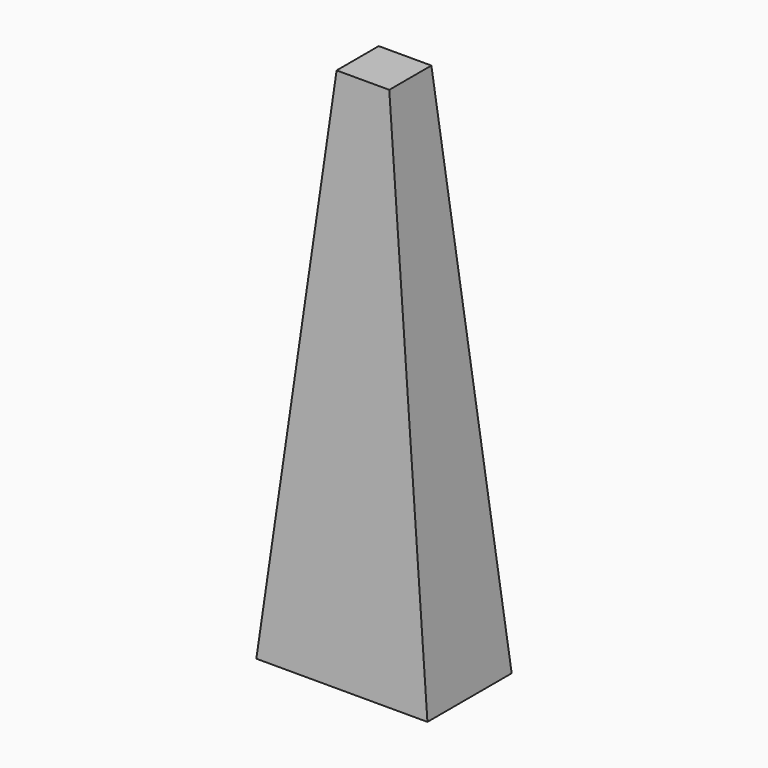
from build123d import *

# Parameters (mm, degrees)
F2_W = 400
F2_H = 400
F0_W = 1300
F0_H = 800
F4_T = -2.5


with BuildPart() as f3:
    # F2 (on offset) → F3 section 0
    with BuildSketch(Plane.XY.offset(4000)):
        Rectangle(F2_W, F2_H)
    # F0 (on Top) → F3 section 1
    with BuildSketch(Plane.XY):
        Rectangle(F0_W, F0_H)
    loft()

    # F4
    f4_openings = [f3.faces().sort_by_distance(p)[0] for p in [
        (0, 0, 0),
    ]]
    offset(amount=F4_T, openings=f4_openings, kind=Kind.INTERSECTION)


solid = f3.part
